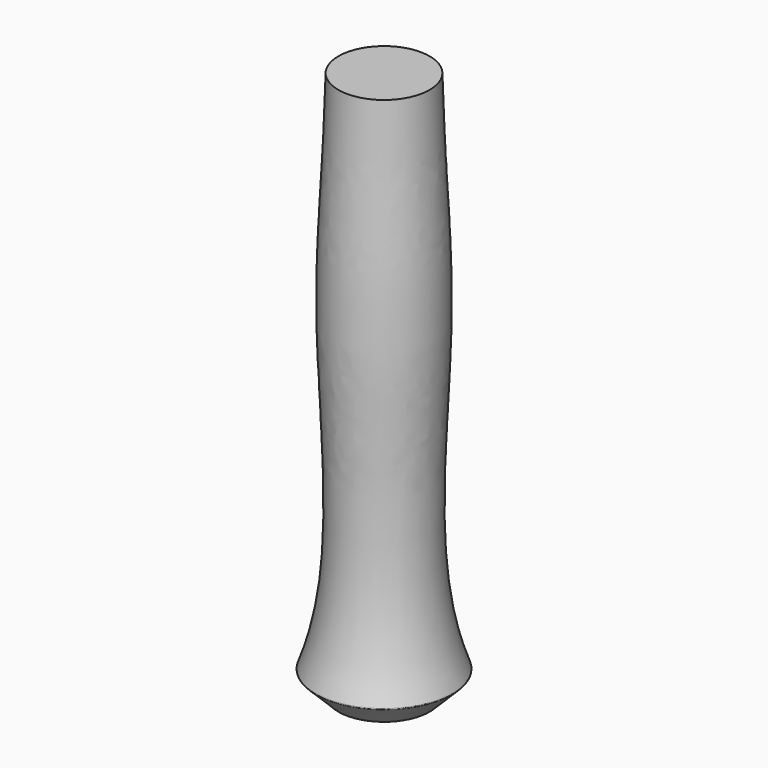
from build123d import *

# Parameters (mm, degrees)
F2_R = 0.3175


with BuildPart() as f1:
    # F0 (on Front) → F1 (revolve)
    with BuildSketch(Plane.XZ):
        with BuildLine():
            Line((-26.541801405, -77.2340549052), (-26.541801405, 75.1659450948))
            Line((-26.541801405, 75.1659450948), (-39.241801405, 75.1659450948))
            add(Edge.make_bspline(
                [(-39.241801405, 75.1659450948), (-39.7204891831, 53.3354766667), (-42.8220209261, 21.3094645358), (-38.4581307487, -29.1570159395), (-40.7335126802, -58.0055015275), (-45.591801405, -70.8840549052)],
                knots=[0, 0, 0, 0, 0.3564683603, 0.6909830952, 1, 1, 1, 1], degree=3))
            Line((-45.591801405, -70.8840549052), (-39.241801405, -77.2340549052))
            Line((-39.241801405, -77.2340549052), (-26.541801405, -77.2340549052))
        make_face()
    revolve(axis=Axis((-26.541801405, 0, -1.0340549052), (0, 0, -1)))

    # F2
    f2_edges = [f1.edges().sort_by_distance(p)[0] for p in [
        (-7.491801, 0, -70.884055),
    ]]
    fillet(f2_edges, radius=F2_R)


solid = f1.part
